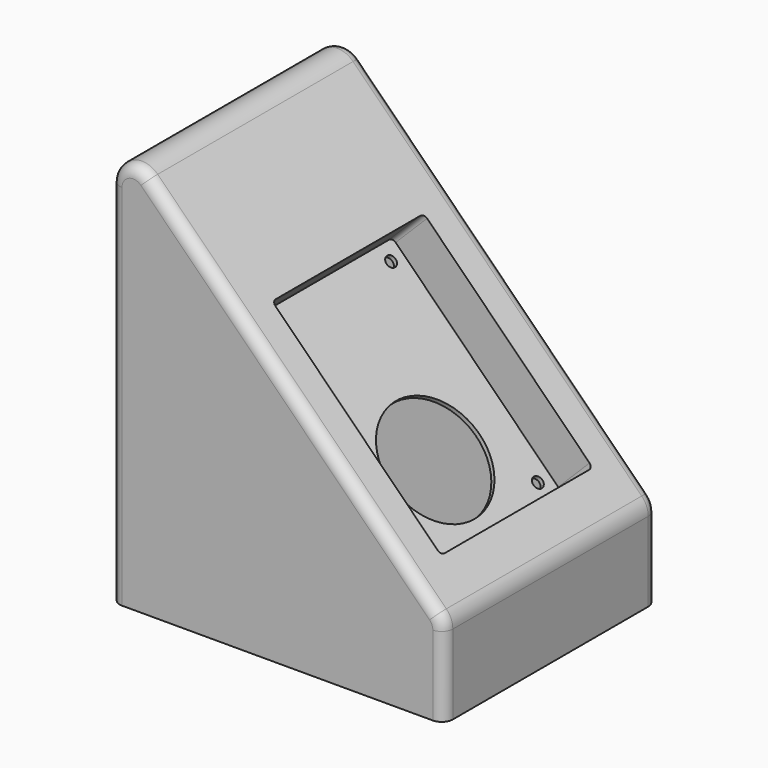
from build123d import *

# Parameters (mm, degrees)
F1_DEPTH = 60
F2_R     = 2.5
F2_R_2   = 25
F3_DEPTH = 20
F4_R     = 5
F5_T     = -2
F6_DEPTH = 25


with BuildPart() as f1:
    # F0 (on Front) → F1 (new body, symmetric)
    with BuildSketch(Plane.XZ):
        with BuildLine():
            Line((-84.0168925865, 63.0011496848), (-84.0168925865, -102.8567146915))
            Line((-84.0168925865, -102.8567146915), (65.9831074135, -102.8567146915))
            Line((65.9831074135, -102.8567146915), (65.9831074135, -66.9988503152))
            ThreePointArc((65.9831074135, -66.9988503152), (65.2219027386, -63.1720159916), (63.0541752254, -59.9277825033))
            Line((63.0541752254, -59.9277825033), (-66.9458247746, 70.0722174967))
            ThreePointArc((-66.9458247746, 70.0722174967), (-77.8437269101, 72.2399450099), (-84.0168925865, 63.0011496848))
        make_face()
    extrude(amount=F1_DEPTH, both=True)

    # F2 (on face) → F3 (cut)
    with BuildSketch(Plane(origin=(1.563196361, 0, 1.563196361), x_dir=(0.7071067812, 0, -0.7071067812), z_dir=(0.7071067812, 0, 0.7071067812))):
        with BuildLine():
            ThreePointArc((69.6613762736, 40.7), (69.0755898359, 42.1142135624), (67.6613762736, 42.7))
            Line((67.6613762736, 42.7), (-35.8386237264, 42.7))
            ThreePointArc((-35.8386237264, 42.7), (-37.2528372888, 42.1142135624), (-37.8386237264, 40.7))
            Line((-37.8386237264, 40.7), (-37.8386237264, -40.7))
            ThreePointArc((-37.8386237264, -40.7), (-37.2528372888, -42.1142135624), (-35.8386237264, -42.7))
            Line((-35.8386237264, -42.7), (67.6613762736, -42.7))
            ThreePointArc((67.6613762736, -42.7), (69.0755898359, -42.1142135624), (69.6613762736, -40.7))
            Line((69.6613762736, -40.7), (69.6613762736, 40.7))
        make_face()
        with Locations((-30.8386237264, -35.7)):
            Circle(F2_R, mode=Mode.SUBTRACT)
        with Locations((62.6613762736, -35.7)):
            Circle(F2_R, mode=Mode.SUBTRACT)
        with Locations((-30.8386237264, 35.7)):
            Circle(F2_R, mode=Mode.SUBTRACT)
        with Locations((37.6613762736, 0)):
            Circle(F2_R_2, mode=Mode.SUBTRACT)
        with Locations((62.6613762736, 35.7)):
            Circle(F2_R, mode=Mode.SUBTRACT)
        with Locations((37.6613762736, 0)):
            Circle(F2_R_2)
        with Locations((-30.8386237264, 35.7)):
            Circle(F2_R)
        with Locations((62.6613762736, 35.7)):
            Circle(F2_R)
        with Locations((62.6613762736, -35.7)):
            Circle(F2_R)
        with Locations((-30.8386237264, -35.7)):
            Circle(F2_R)
    extrude(amount=-F3_DEPTH, mode=Mode.SUBTRACT)

    # F4
    f4_edges = [f1.edges().sort_by_distance(p)[0] for p in [
        (-1.945825, 60, 5.072217),
        (-1.945825, -60, 5.072217),
    ]]
    fillet(f4_edges, radius=F4_R)

    # F5
    f5_openings = [f1.faces().sort_by_distance(p)[0] for p in [
        (-9.016893, 0, -102.856715),
    ]]
    offset(amount=F5_T, openings=f5_openings, kind=Kind.INTERSECTION)

    # F2 (on face) → F6 (cut)
    with BuildSketch(Plane(origin=(1.563196361, 0, 1.563196361), x_dir=(0.7071067812, 0, -0.7071067812), z_dir=(0.7071067812, 0, 0.7071067812))):
        with Locations((37.6613762736, 0)):
            Circle(F2_R_2)
        with Locations((-30.8386237264, 35.7)):
            Circle(F2_R)
        with Locations((-30.8386237264, -35.7)):
            Circle(F2_R)
        with Locations((62.6613762736, 35.7)):
            Circle(F2_R)
        with Locations((62.6613762736, -35.7)):
            Circle(F2_R)
    extrude(amount=-F6_DEPTH, mode=Mode.SUBTRACT)


solid = f1.part
